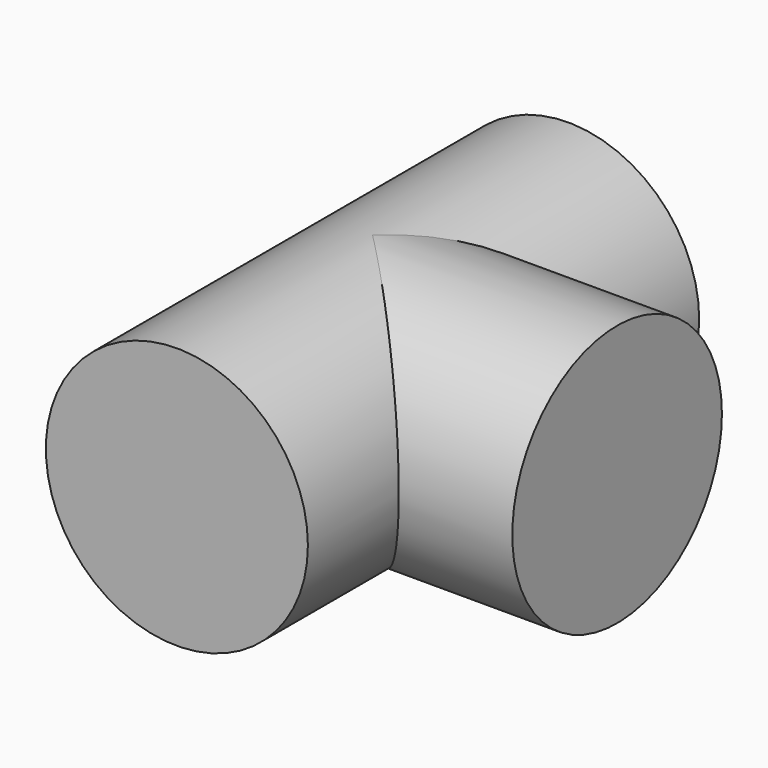
from build123d import *

# Parameters (mm, degrees)
F0_R      = 15
F1_DEPTH  = 28
F1_FACE_R = 15
F2_DEPTH  = 28
F3_R      = 15
F4_DEPTH  = 28


with BuildPart() as f1:
    # F0 (on Front) → F1 (new body)
    with BuildSketch(Plane.XZ):
        Circle(F0_R)
    extrude(amount=F1_DEPTH)

    # F1_face (on face) → F2 (join)
    with BuildSketch(Plane(origin=(0, 0, 0), x_dir=(1, 0, 0), z_dir=(0, 1, 0))):
        Circle(F1_FACE_R)
    extrude(amount=F2_DEPTH)

    # F3 (on Right) → F4 (join)
    with BuildSketch(Plane.YZ):
        Circle(F3_R)
    extrude(amount=F4_DEPTH)


solid = f1.part
